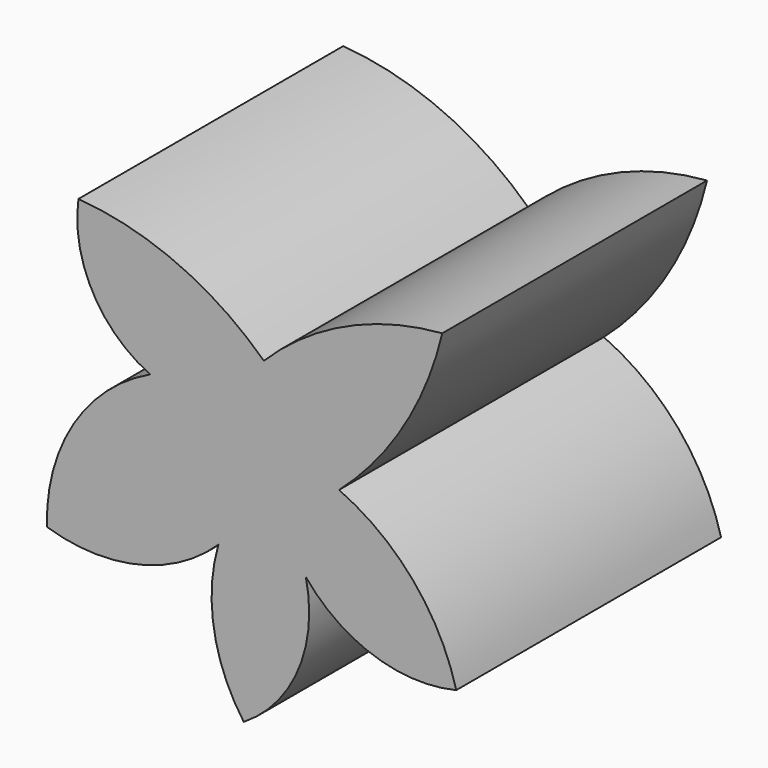
from build123d import *

# Parameters (mm, degrees)
F1_DEPTH = 50.8


with BuildPart() as f1:
    # F0 (on Front) → F1 (new body)
    with BuildSketch(Plane.XZ):
        with BuildLine():
            ThreePointArc((14.632703, 36.111895), (24.590649, 48.041247), (30.473609, 62.423907))
            ThreePointArc((30.473609, 62.423907), (15.659747, 58.546931), (3.087634, 49.804881))
            ThreePointArc((3.087634, 49.804881), (-10.055932, 58.564574), (-25.372298, 62.423907))
            ThreePointArc((-25.372298, 62.423907), (-23.19658, 50.536053), (-14.364212, 42.287167))
            ThreePointArc((-14.364212, 42.287167), (-26.131249, 31.763696), (-30.205118, 16.512131))
            ThreePointArc((-30.205118, 16.512131), (-16.202639, 15.993059), (-3.893103, 22.6874))
            ThreePointArc((-3.893103, 22.6874), (-4.556758, 10.895795), (0, 0))
            ThreePointArc((0, 0), (8.389994, 9.821066), (9.531393, 22.6874))
            ThreePointArc((9.531393, 22.6874), (19.951333, 15.457709), (32.621529, 14.901192))
            ThreePointArc((32.621529, 14.901192), (26.028553, 27.543205), (14.632703, 36.111895))
        make_face()
    extrude(amount=F1_DEPTH)


solid = f1.part
